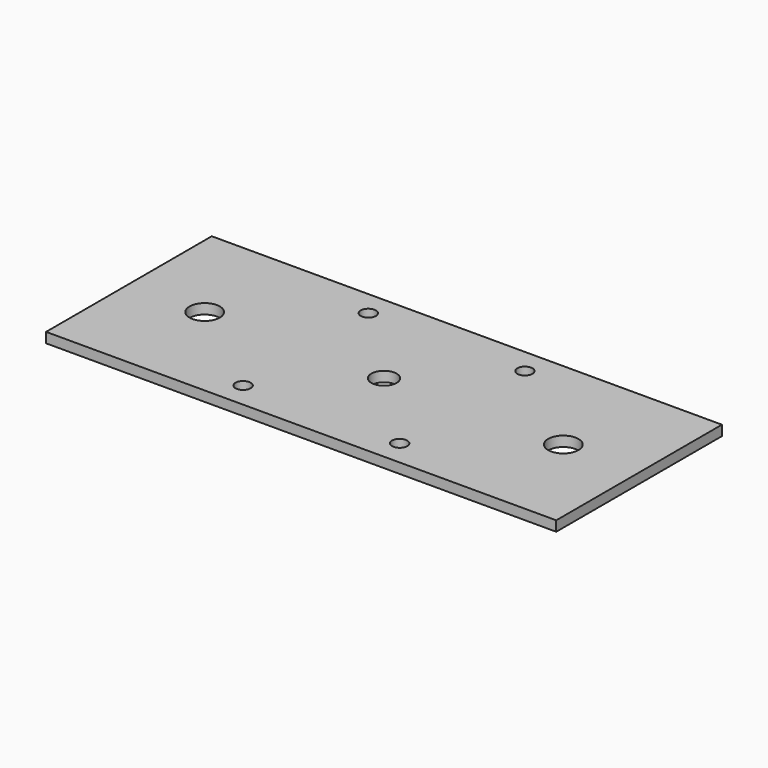
from build123d import *

# Parameters (mm, degrees)
F0_W     = 101
F0_H     = 41
F0_R     = 1.5
F0_R_2   = 3
F0_R_3   = 2.5
F1_DEPTH = 2


with BuildPart() as f1:
    # F0 (on Top) → F1 (new body)
    with BuildSketch(Plane.XY):
        with Locations((0, 0.000367)):
            Rectangle(F0_W, F0_H)
        with Locations((-15.5, -15.499633)):
            Circle(F0_R, mode=Mode.SUBTRACT)
        with Locations((-35.5, -0.001833)):
            Circle(F0_R_2, mode=Mode.SUBTRACT)
        with Locations((15.5, -15.499633)):
            Circle(F0_R, mode=Mode.SUBTRACT)
        with Locations((0, 0.000367)):
            Circle(F0_R_3, mode=Mode.SUBTRACT)
        with Locations((35.5, -0.001833)):
            Circle(F0_R_2, mode=Mode.SUBTRACT)
        with Locations((-15.5, 15.500367)):
            Circle(F0_R, mode=Mode.SUBTRACT)
        with Locations((15.5, 15.500367)):
            Circle(F0_R, mode=Mode.SUBTRACT)
    extrude(amount=F1_DEPTH)


solid = f1.part
